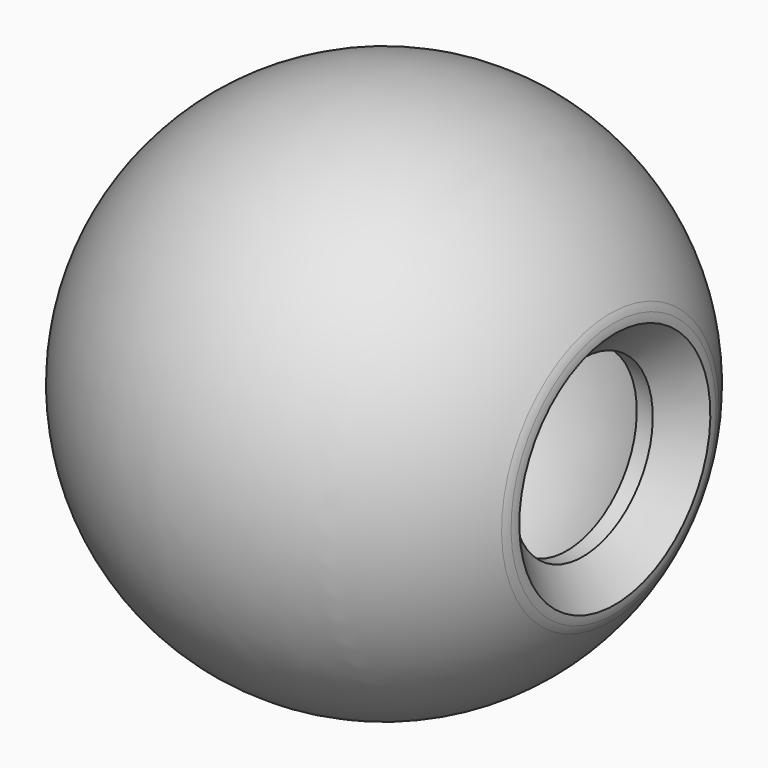
from build123d import *


with BuildPart() as f2:
    # F1 (on Front) → F2 (revolve)
    with BuildSketch(Plane.XZ):
        with BuildLine():
            ThreePointArc((14.353393, 8.016091), (14.265094, 8.262075), (14.145472, 8.494446))
            ThreePointArc((14.145472, 8.494446), (0.39075, 16.495373), (-13.727391, 9.15471))
            ThreePointArc((-13.727391, 9.15471), (-13.450259, 7.767916), (-12.063465, 8.045049))
            ThreePointArc((-12.063465, 8.045049), (-0.540269, 14.489931), (11.43087, 8.921055))
            Line((11.43087, 8.921055), (11.43087, 6.464816))
            Line((11.43087, 6.464816), (12.43087, 6.464816))
            Line((12.43087, 6.464816), (12.43087, 7.464816))
            Line((12.43087, 7.464816), (14.353393, 8.016091))
        make_face()
    revolve(axis=Axis((-1.034565, 0, 0), (-1, 0, 0)))


with BuildPart() as f4:
    # F3 (on Front) → F4 (revolve)
    with BuildSketch(Plane.XZ):
        with BuildLine():
            Line((12.43087, 5.464816), (14.43087, 7.464816))
            ThreePointArc((14.43087, 7.464816), (14.411406, 7.743162), (14.353393, 8.016091))
            Line((14.353393, 8.016091), (12.43087, 7.464816))
            Line((12.43087, 7.464816), (12.43087, 6.464816))
            Line((12.43087, 6.464816), (11.43087, 6.464816))
            Line((11.43087, 6.464816), (11.43087, 5.464816))
            Line((11.43087, 5.464816), (12.43087, 5.464816))
        make_face()
    revolve(axis=Axis((-1.034565, 0, 0), (-1, 0, 0)))


solid = Compound([f2.part, f4.part])
